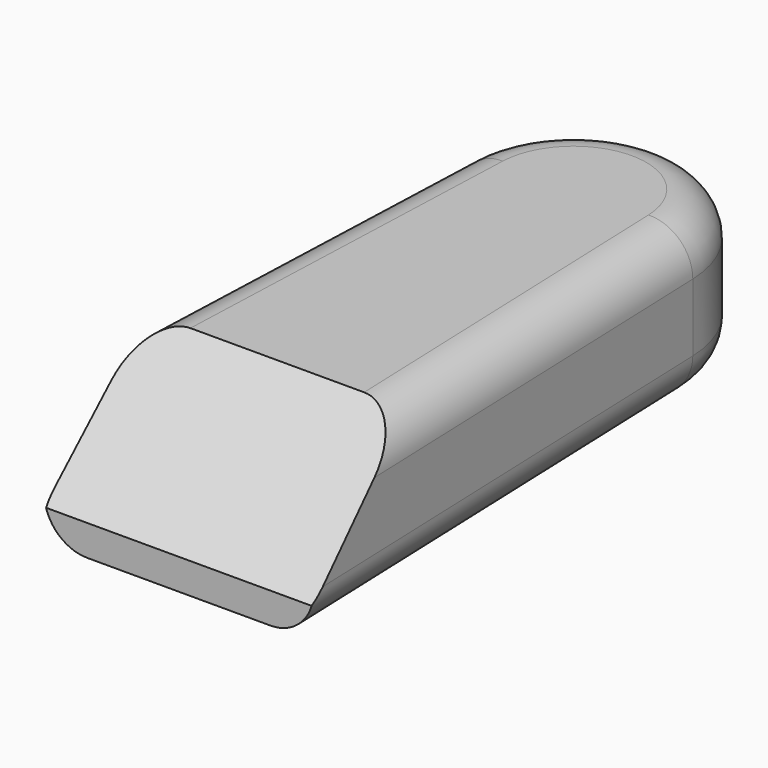
from build123d import *

# Parameters (mm, degrees)
F1_DEPTH = 3.175
F2_SIZE  = 2.54
F3_R     = 0.889


with BuildPart() as f1:
    # F0 (on Top) → F1 (new body)
    with BuildSketch(Plane.XY):
        with BuildLine():
            Line((3.23494, 21.287959), (2.849758, 31.559478))
            ThreePointArc((2.849758, 31.559478), (0.456815, 33.864368), (-1.936128, 31.559478))
            Line((-1.936128, 31.559478), (-2.32131, 21.287959))
            Line((-2.32131, 21.287959), (3.23494, 21.287959))
        make_face()
    extrude(amount=F1_DEPTH)

    # F2
    f2_edges = [f1.edges().sort_by_distance(p)[0] for p in [
        (0.456815, 21.287959, 3.175),
    ]]
    chamfer(f2_edges, length=F2_SIZE)

    # F3
    f3_edges = [f1.edges().sort_by_distance(p)[0] for p in [
        (-2.081094, 27.693719, 3.175),
        (-2.128719, 26.423719, 0),
    ]]
    fillet(f3_edges, radius=F3_R)


solid = f1.part
